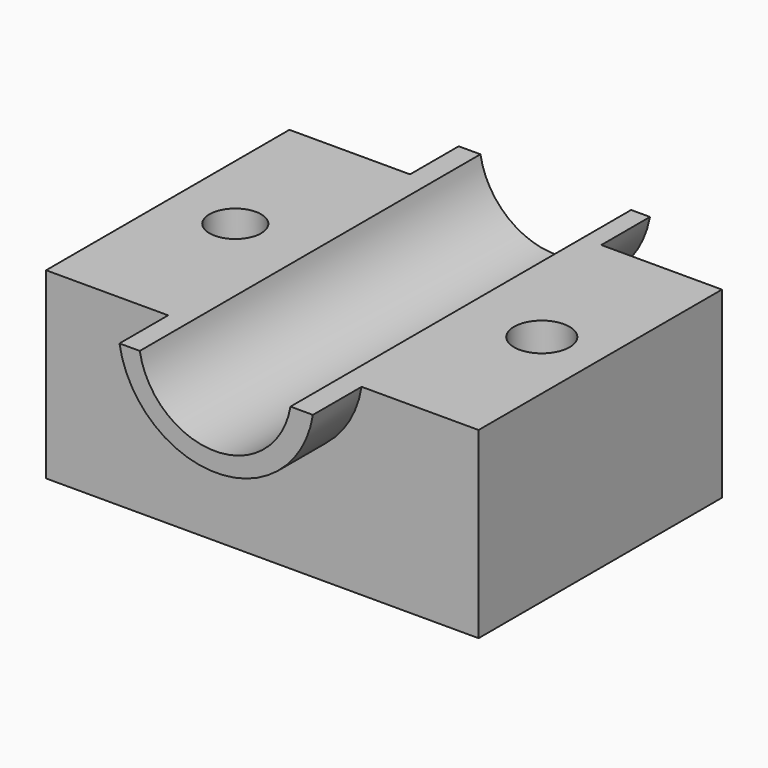
from build123d import *

# Parameters (mm, degrees)
F0_W      = 180.589676
F0_H      = 76.531302
F1_DEPTH  = 127
F4_DEPTH  = 127.001
F6_DEPTH  = 25.4
F8_DEPTH  = 25.4
F9_R      = 10.785345
F9_R_2    = 11.594885
F10_DEPTH = 25.4


with BuildPart() as f1:
    # F0 (on Front) → F1 (new body)
    with BuildSketch(Plane.XZ):
        with Locations((-1.058735, -6.049903)):
            Rectangle(F0_W, F0_H)
    extrude(amount=F1_DEPTH)

    # F2 (on face) → F4 (cut, through all)
    with BuildSketch(Plane.XZ.offset(127)):
        with BuildLine():
            Line((31.005763, 32.215748), (-31.913254, 32.215748))
            ThreePointArc((-31.913254, 32.215748), (-0.453746, 5.58325), (31.005763, 32.215748))
        make_face()
    extrude(amount=-F4_DEPTH, mode=Mode.SUBTRACT)

    # F3 (on face) → F6 (join)
    with BuildSketch(Plane.XZ.offset(127)):
        with BuildLine():
            ThreePointArc((31.005763, 32.215748), (-0.453746, 5.58325), (-31.913254, 32.215748))
            Line((-31.913254, 32.215748), (-40.383123, 32.215748))
            ThreePointArc((-40.383123, 32.215748), (-2e-06, -2.234087), (40.383119, 32.215748))
            Line((40.383119, 32.215748), (31.005763, 32.215748))
        make_face()
    extrude(amount=F6_DEPTH)

    # F7 (on face) → F8 (join)
    with BuildSketch(Plane(origin=(0, 0, 0), x_dir=(-1, 0, 0), z_dir=(0, 1, 0))):
        with BuildLine():
            Line((-31.005763, 32.215748), (-38.87064, 32.215748))
            ThreePointArc((-38.87064, 32.215748), (1.058737, -1.02799), (40.988114, 32.215748))
            Line((40.988114, 32.215748), (31.913254, 32.215748))
            ThreePointArc((31.913254, 32.215748), (0.453746, 5.58325), (-31.005763, 32.215748))
        make_face()
    extrude(amount=F8_DEPTH)

    # F9 (on face) → F10 (cut)
    with BuildSketch(Plane.XY.offset(32.215748)):
        with Locations((-63.675255, -62.828988)):
            Circle(F9_R)
        with Locations((64.280249, -62.828988)):
            Circle(F9_R_2)
    extrude(amount=-F10_DEPTH, mode=Mode.SUBTRACT)


solid = f1.part
